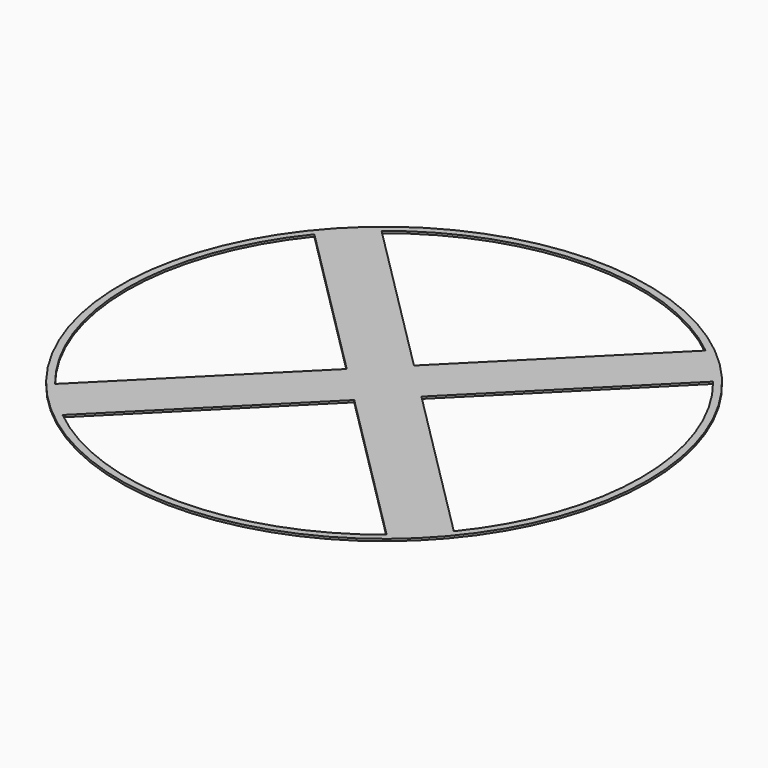
from build123d import *

# Parameters (mm, degrees)
F0_R     = 75
F1_DEPTH = 0.6


with BuildPart() as f1:
    # F0 (on Top) → F1 (new body)
    with BuildSketch(Plane.XY):
        Circle(F0_R)
        with BuildLine():
            ThreePointArc((56.6489433225, 46.0423416047), (68.7908891589, 24.4297680859), (73, 0))
            ThreePointArc((73, 0), (68.7908891589, -24.4297680859), (56.6489433225, -46.0423416047))
            ThreePointArc((56.6489433225, -46.0423416047), (51.6187950266, -51.6187950266), (46.0423416047, -56.6489433225))
            ThreePointArc((46.0423416047, -56.6489433225), (0, -73), (-46.0423416047, -56.6489433225))
            ThreePointArc((-46.0423416047, -56.6489433225), (-51.6187950266, -51.6187950266), (-56.6489433225, -46.0423416047))
            ThreePointArc((-56.6489433225, -46.0423416047), (-73, 0), (-56.6489433225, 46.0423416047))
            ThreePointArc((-56.6489433225, 46.0423416047), (-51.6187950266, 51.6187950266), (-46.0423416047, 56.6489433225))
            ThreePointArc((-46.0423416047, 56.6489433225), (0, 73), (46.0423416047, 56.6489433225))
            ThreePointArc((46.0423416047, 56.6489433225), (51.6187950266, 51.6187950266), (56.6489433225, 46.0423416047))
        make_face(mode=Mode.SUBTRACT)
        with BuildLine():
            Line((0, 10.6066017178), (-46.0423416047, 56.6489433225))
            ThreePointArc((-46.0423416047, 56.6489433225), (-51.6187950266, 51.6187950266), (-56.6489433225, 46.0423416047))
            Line((-56.6489433225, 46.0423416047), (-10.6066017178, 0))
            Line((-10.6066017178, 0), (0, 10.6066017178))
        make_face()
        with BuildLine():
            Line((-46.0423416047, -56.6489433225), (0, -10.6066017178))
            Line((0, -10.6066017178), (-10.6066017178, 0))
            Line((-10.6066017178, 0), (-56.6489433225, -46.0423416047))
            ThreePointArc((-56.6489433225, -46.0423416047), (-51.6187950266, -51.6187950266), (-46.0423416047, -56.6489433225))
        make_face()
        with BuildLine():
            ThreePointArc((46.0423416047, -56.6489433225), (51.6187950266, -51.6187950266), (56.6489433225, -46.0423416047))
            Line((56.6489433225, -46.0423416047), (10.6066017178, 0))
            Line((10.6066017178, 0), (0, -10.6066017178))
            Line((0, -10.6066017178), (46.0423416047, -56.6489433225))
        make_face()
        with BuildLine():
            Line((10.6066017178, 0), (56.6489433225, 46.0423416047))
            ThreePointArc((56.6489433225, 46.0423416047), (51.6187950266, 51.6187950266), (46.0423416047, 56.6489433225))
            Line((46.0423416047, 56.6489433225), (0, 10.6066017178))
            Line((0, 10.6066017178), (10.6066017178, 0))
        make_face()
        Polygon((0, -10.6066017178), (10.6066017178, 0), (0, 10.6066017178), (-10.6066017178, 0), align=None)
    extrude(amount=F1_DEPTH)


solid = f1.part
